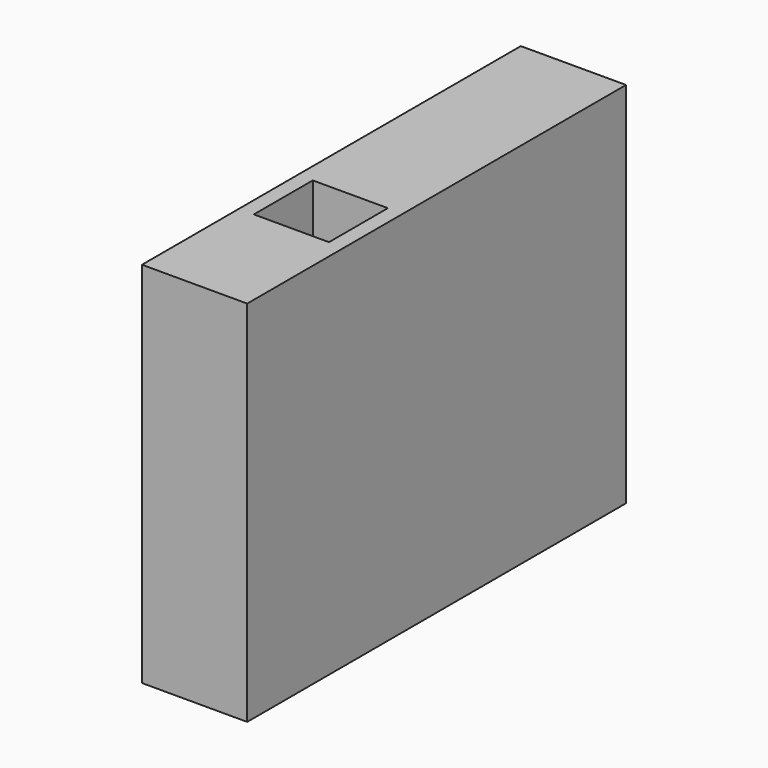
from build123d import *

# Parameters (mm, degrees)
F0_W     = 10
F0_H     = 20
F1_DEPTH = 10
F2_W     = 7.14
F2_H     = 7
F3_DEPTH = 25
F4_DEPTH = 25
F5_DEPTH = 25


with BuildPart() as f1:
    # F0 (on Top) → F1 (new body)
    with BuildSketch(Plane.XY):
        with Locations((5, 10)):
            Rectangle(F0_W, F0_H)
        with Locations((5, 10)):
            Rectangle(F0_W, F0_H)
    extrude(amount=F1_DEPTH)

    # F2 (on face) → F3 (cut)
    with BuildSketch(Plane.XY.offset(10)):
        with Locations((5, 15)):
            Rectangle(F2_W, F2_H)
    extrude(amount=-F3_DEPTH, mode=Mode.SUBTRACT)

    # F4 (add): a face of the model
    f4_faces = [f1.faces().sort_by_distance(p)[0] for p in [
        (5, 20, 5),
    ]]
    extrude(f4_faces, amount=F4_DEPTH)

    # F5 (add): a face of the model
    f5_faces = [f1.faces().sort_by_distance(p)[0] for p in [
        (5, 23.4370781461, 10),
    ]]
    extrude(f5_faces, amount=F5_DEPTH)


solid = f1.part
